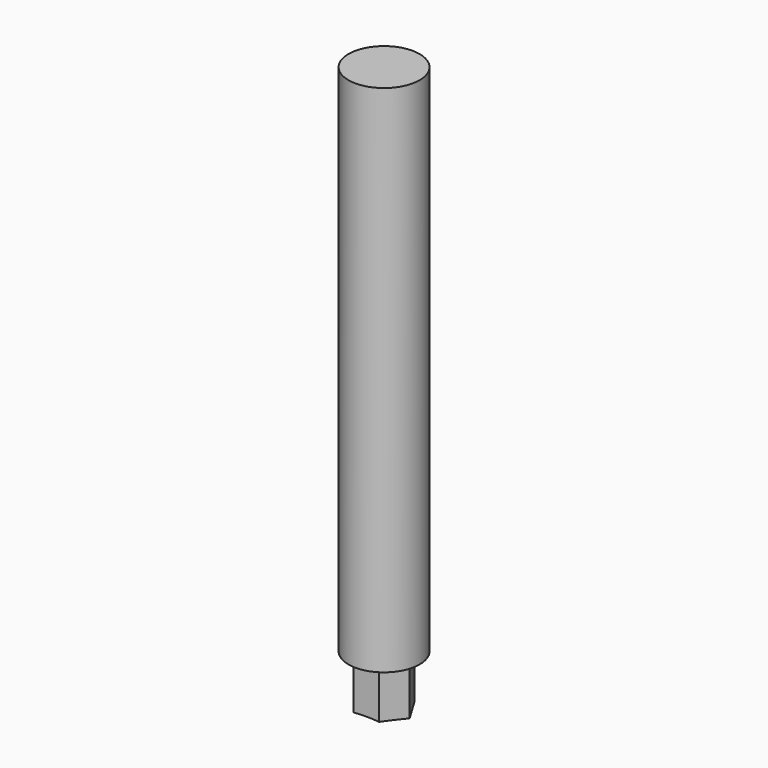
from build123d import *

# Parameters (mm, degrees)
F0_W          = 3.175
F0_H          = 50.8
F2_R          = 4.7625
F3_DEPTH      = 4.826
F4_R          = 12.7
F5_DEPTH      = 3.176
F5_DEPTH_BACK = 3.176


with BuildPart() as f1:
    # F0 (on Front) → F1 (revolve)
    with BuildSketch(Plane.XZ):
        with Locations((1.5875, 25.4)):
            Rectangle(F0_W, F0_H)
    revolve(axis=Axis((0, 0, 31.9059565663), (0, 0, 1)))

    # F2 (on face) → F3 (cut)
    with BuildSketch(Plane(origin=(0, 0, 0), x_dir=(1, 0, 0), z_dir=(0, 0, -1))):
        Circle(F2_R)
        Polygon((-2.2913588808, 0), (-1.1456794404, 1.984375), (1.1456794404, 1.984375), (2.2913588808, 0), (1.1456794404, -1.984375), (-1.1456794404, -1.984375), align=None, mode=Mode.SUBTRACT)
    extrude(amount=-F3_DEPTH, mode=Mode.SUBTRACT)

    # F4 (on Front) → F5 (cut, two sides)
    with BuildSketch(Plane.XZ) as f5_sk:
        with Locations((0, -12.192)):
            Circle(F4_R)
    extrude(amount=-F5_DEPTH, mode=Mode.SUBTRACT)
    extrude(f5_sk.sketch, amount=F5_DEPTH_BACK, mode=Mode.SUBTRACT)


solid = f1.part
